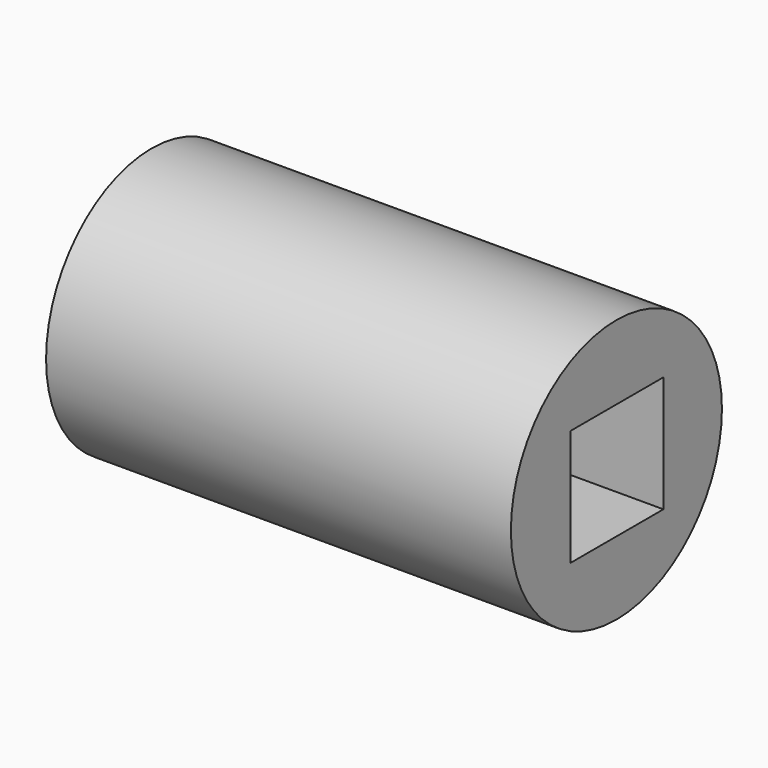
from build123d import *

# Parameters (mm, degrees)
F0_R     = 14.414674
F1_DEPTH = 50.8
F2_W     = 12.7
F2_H     = 12.7
F3_DEPTH = 12.7
F5_DEPTH = 38.1


with BuildPart() as f1:
    # F0 (on Right) → F1 (new body)
    with BuildSketch(Plane.YZ):
        with Locations((-56.139331, 5.552941)):
            Circle(F0_R)
    extrude(amount=-F1_DEPTH)

    # F2 (on face) → F3 (cut)
    with BuildSketch(Plane.YZ):
        with Locations((-56.067919, 5.498222)):
            Rectangle(F2_W, F2_H)
    extrude(amount=-F3_DEPTH, mode=Mode.SUBTRACT)

    # F4 (on face) → F5 (cut, through all)
    with BuildSketch(Plane(origin=(-50.8, 0, 0), x_dir=(0, -1, 0), z_dir=(-1, 0, 0))):
        Polygon((62.867289, -2.07704), (66.111067, 7.564533), (59.383109, 15.194513), (49.411373, 13.182921), (46.167595, 3.541348), (52.895554, -4.088632), align=None)
    extrude(amount=-F5_DEPTH, mode=Mode.SUBTRACT)


solid = f1.part
